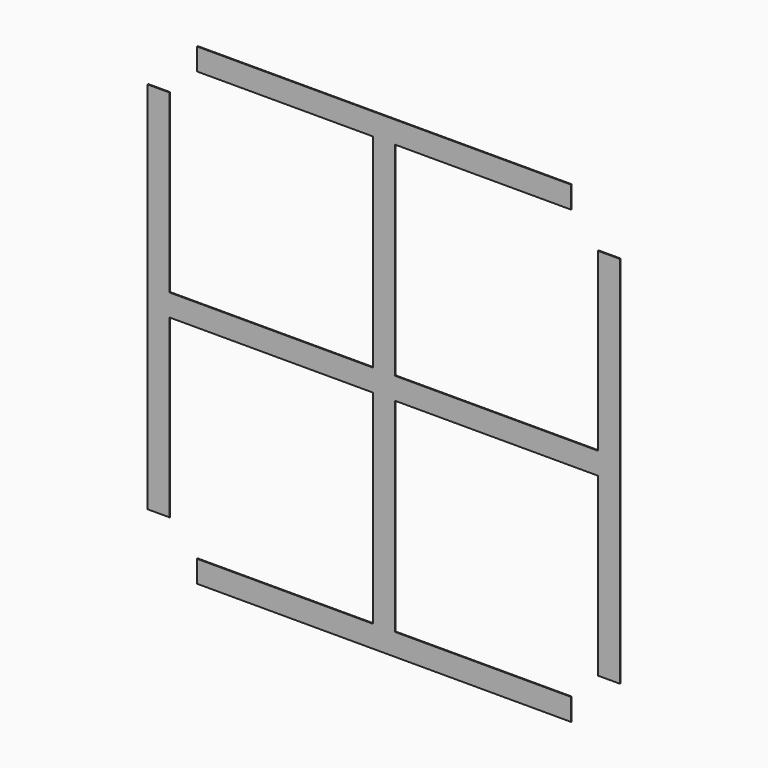
from build123d import *

# Parameters (mm, degrees)
F0_W     = 80
F0_H     = 10
F0_W_2   = 10
F0_H_2   = 80
F1_DEPTH = 0.4


with BuildPart() as f1:
    # F0 (on Front) → F1 (new body)
    with BuildSketch(Plane.XZ):
        with Locations((-45, -102.5)):
            Rectangle(F0_W, F0_H)
        Polygon((5, -5), (-5, -5), (-5, -97.5), (-5, -107.5), (5, -107.5), (5, -97.5), align=None)
        with Locations((45, -102.5)):
            Rectangle(F0_W, F0_H)
        with Locations((102.1532762051, -45)):
            Rectangle(F0_W_2, F0_H_2)
        Polygon((97.1532762051, 5), (5, 5), (5, -5), (97.1532762051, -5), (107.1532762051, -5), (107.1532762051, 5), align=None)
        with Locations((102.1532762051, 45)):
            Rectangle(F0_W_2, F0_H_2)
        Polygon((-5, 97.5), (-5, 5), (5, 5), (5, 97.5), (5, 107.5), (-5, 107.5), align=None)
        Rectangle(F0_W_2, F0_H)
        Polygon((-97.5, 5), (-107.5, 5), (-107.5, -5), (-97.5, -5), (-5, -5), (-5, 5), align=None)
        with Locations((-102.5, -45)):
            Rectangle(F0_W_2, F0_H_2)
        with Locations((-102.5, 45)):
            Rectangle(F0_W_2, F0_H_2)
        with Locations((45, 102.5)):
            Rectangle(F0_W, F0_H)
        with Locations((-45, 102.5)):
            Rectangle(F0_W, F0_H)
    extrude(amount=F1_DEPTH)


solid = f1.part
